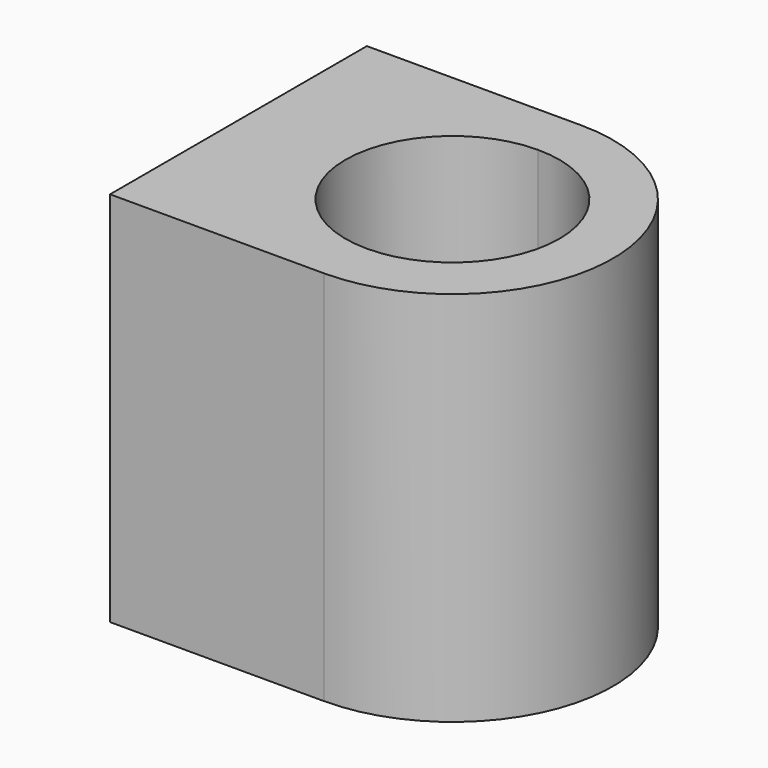
from build123d import *

# Parameters (mm, degrees)
F1_DEPTH = 88


with BuildPart() as f1:
    # F0 (on Top) → F1 (new body)
    with BuildSketch(Plane.XY):
        with BuildLine():
            Line((0, 75), (0, 0))
            Line((0, 0), (50, 0))
            ThreePointArc((50, 0), (87.5, 37.5), (50, 75))
            Line((50, 75), (0, 75))
        make_face()
        with BuildLine():
            ThreePointArc((75, 37.5), (67.67767, 19.82233), (50, 12.5))
            ThreePointArc((50, 12.5), (25, 37.5), (50, 62.5))
            ThreePointArc((50, 62.5), (67.67767, 55.17767), (75, 37.5))
        make_face(mode=Mode.SUBTRACT)
    extrude(amount=F1_DEPTH)


solid = f1.part
